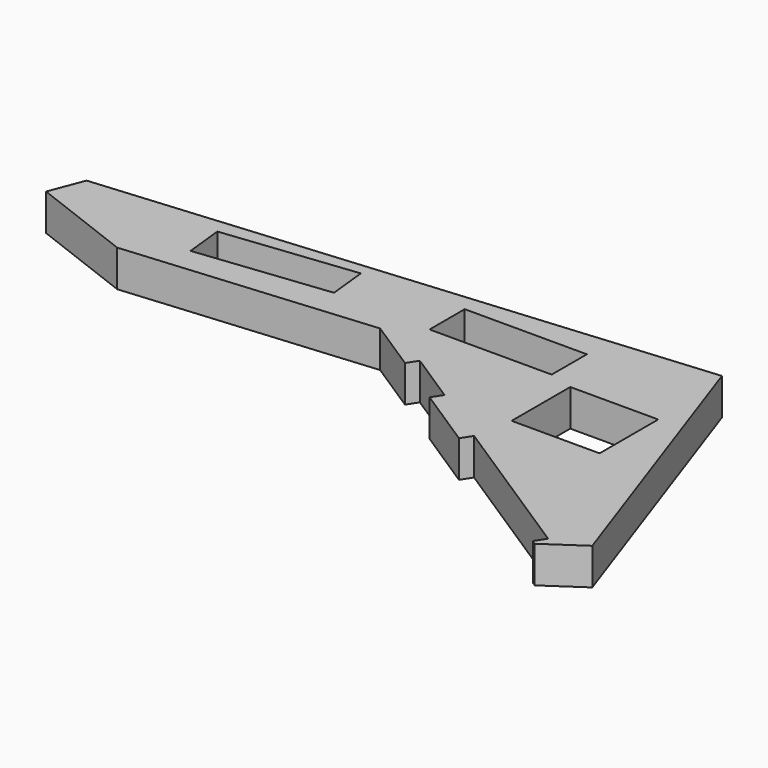
from build123d import *

# Parameters (mm, degrees)
PAD_DEPTH    = 15
SKETCH_W     = 36
SKETCH_H     = 30
SKETCH_W_2   = 50
SKETCH_H_2   = 18
POCKET_DEPTH = 15


with BuildPart() as part:
    # Sketch001 → Pad (new body)
    with BuildSketch(Plane.XY):
        Polygon((-5.375519, -14.003706), (36.6356, -30.130264), (137.251264, -21.327534), (268.922544, -106.835863), (284.17016, -96.456116), (243.071506, 21.266001), (0, 0), align=None)
    extrude(amount=PAD_DEPTH)

    # Sketch (on Face9 of Pad) → Pocket (cut)
    with BuildSketch(Plane.XY.offset(15)):
        with Locations((228, -30)):
            Rectangle(SKETCH_W, SKETCH_H)
        with Locations((175, -3)):
            Rectangle(SKETCH_W_2, SKETCH_H_2)
        Polygon((54.668897, -1.428386), (56.362903, -17.247945), (110.287964, -11.228361), (108.593958, 4.591198), align=None)
        Polygon((202.786784, -67.35767), (207.137526, -60.644173), (270.056785, -101.41956), (265.725821, -108.145875), align=None)
        Polygon((156.748499, -37.544555), (177.712625, -51.164592), (182.071037, -44.456072), (161.106911, -30.836035), align=None)
    extrude(amount=-POCKET_DEPTH, mode=Mode.SUBTRACT)


solid = part.part
